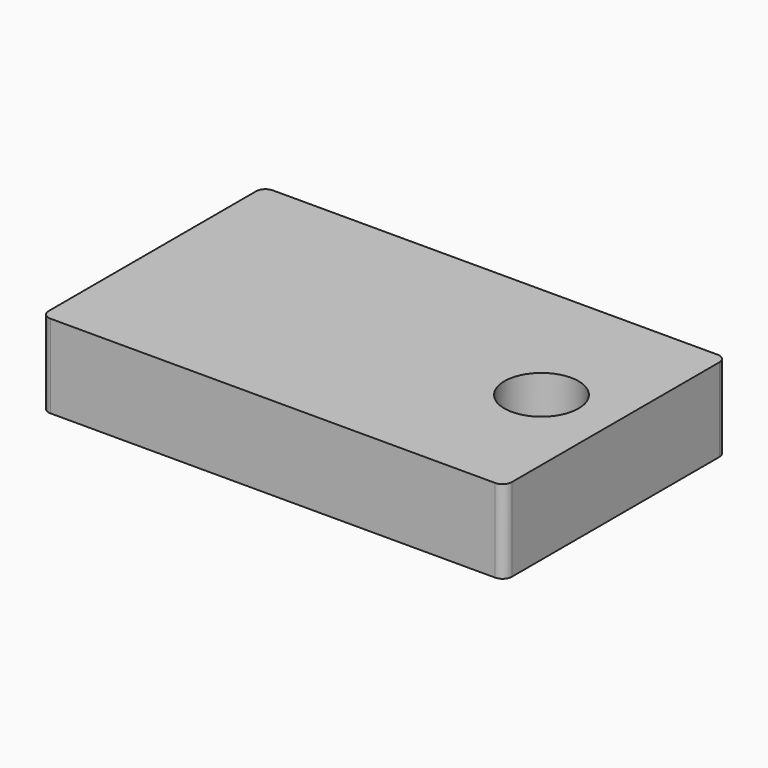
from build123d import *

# Parameters (mm, degrees)
F0_W     = 25
F0_H     = 15
F0_R     = 2
F1_DEPTH = 4.5
F2_R     = 0.5


with BuildPart() as f1:
    # F0 (on Top) → F1 (new body)
    with BuildSketch(Plane.XY):
        Rectangle(F0_W, F0_H)
        with Locations((8.5, 0)):
            Circle(F0_R, mode=Mode.SUBTRACT)
    extrude(amount=F1_DEPTH)

    # F2
    f2_edges = [f1.edges().sort_by_distance(p)[0] for p in [
        (-12.5, 7.5, 2.25),
        (12.5, 7.5, 2.25),
        (12.5, -7.5, 2.25),
        (-12.5, -7.5, 2.25),
    ]]
    fillet(f2_edges, radius=F2_R)


solid = f1.part
